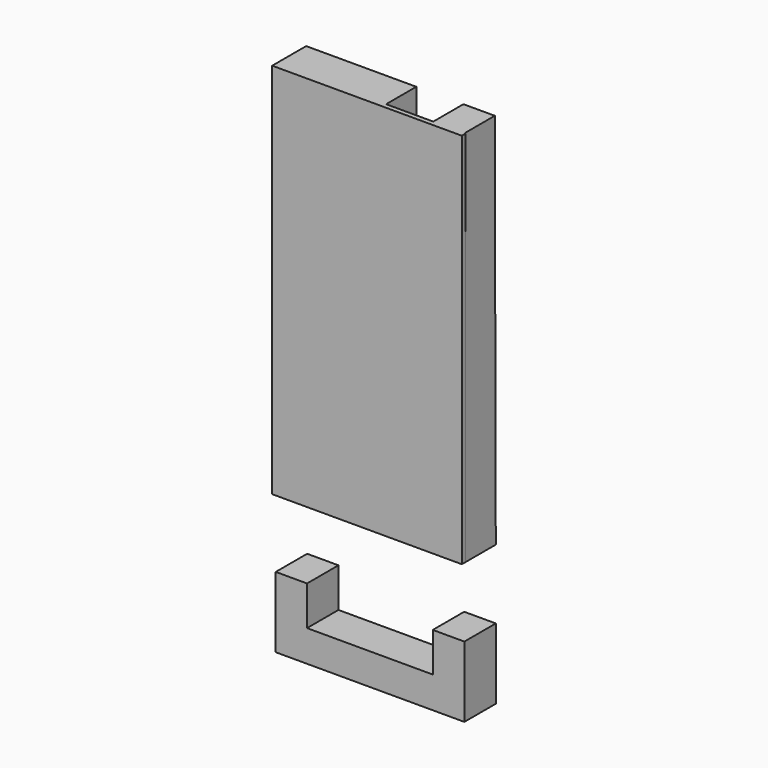
from build123d import *

# Parameters (mm, degrees)
F0_W          = 80
F0_H          = 25
F1_DEPTH      = 25
F0_H_2        = 80
F2_DEPTH      = 25
F3_W          = 79.7933001444
F3_H          = 20
F4_DEPTH      = 25
F6_DEPTH      = 1
F6_DEPTH_BACK = 2
F7_DEPTH      = 25
F8_DEPTH      = 25
F9_DEPTH      = 25


with BuildPart() as f1:
    # F0 (on Front) → F1 (new body)
    with BuildSketch(Plane.XZ):
        with Locations((59.9016835541, -56.6160219908)):
            Rectangle(F0_W, F0_H)
        Polygon((120, -89.1160219908), (120, -44.1160219908), (99.9016835541, -44.1160219908), (99.9016835541, -69.1160219908), (19.9016835541, -69.1160219908), (19.9016835541, -44.1160219908), (0, -44.1160219908), (0, -89.1160219908), align=None)
    extrude(amount=F1_DEPTH)

    # F0 (on Front) → F8 (cut)
    with BuildSketch(Plane.XZ):
        with Locations((59.9016835541, -56.6160219908)):
            Rectangle(F0_W, F0_H)
    extrude(amount=-F8_DEPTH, mode=Mode.SUBTRACT)

    # F0 (on Front) → F9 (cut)
    with BuildSketch(Plane.XZ):
        with Locations((59.9016835541, -56.6160219908)):
            Rectangle(F0_W, F0_H)
    extrude(amount=F9_DEPTH, mode=Mode.SUBTRACT)


with BuildPart() as f1b:
    # F0 (on Front) → F1, piece 2 (new body)
    with BuildSketch(Plane.XZ):
        Polygon((-0.643079976, 240), (0, 0), (120, 0), (119.356920024, 240), (69.4105818191, 240), (69.4105818191, 220), (99.4105818191, 220), (99.4105818191, 130), (99.4105818191, 120), (99.4105818191, 40), (19.4105818191, 40), (19.4105818191, 120), (19.4105818191, 200), (19.4105818191, 220), (19.356991821, 240), align=None)
        Polygon((69.4105818191, 240), (19.356991821, 240), (19.4105818191, 220), (69.4105818191, 220), align=None)
    extrude(amount=F1_DEPTH)

    # F0 (on Front) → F2 (join)
    with BuildSketch(Plane.XZ):
        with Locations((59.4105818191, 80)):
            Rectangle(F0_W, F0_H_2)
    extrude(amount=F2_DEPTH)

    # F3 (on face) → F4 (cut)
    with BuildSketch(Plane.XZ.offset(25)):
        with Locations((59.5139317469, 230)):
            Rectangle(F3_W, F3_H)
    extrude(amount=-F4_DEPTH, mode=Mode.SUBTRACT)

    # F5 (on face) → F6 (join, two sides)
    with BuildSketch(Plane.XZ.offset(25)) as f6_sk:
        Polygon((0, 0), (-0.643079976, 240), (-0.643079976, 0), align=None)
        Polygon((119.356920024, 240), (-0.643079976, 240), (-0.643079976, 0), (0, 0), (120, 0), (120, 240), align=None)
    extrude(amount=-F6_DEPTH)
    extrude(f6_sk.sketch, amount=F6_DEPTH_BACK)

    # F0 (on Front) → F7 (join)
    with BuildSketch(Plane.XZ):
        Polygon((69.4105818191, 240), (19.356991821, 240), (19.4105818191, 220), (69.4105818191, 220), align=None)
    extrude(amount=F7_DEPTH)


solid = Compound([f1.part, f1b.part])
